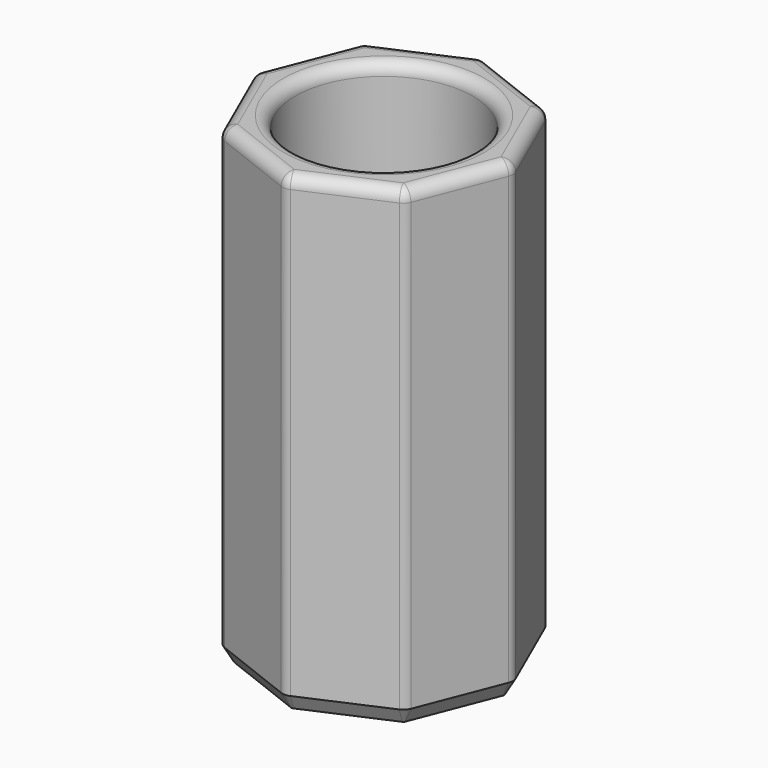
from build123d import *

# Parameters (mm, degrees)
F0_R     = 6.25
F1_DEPTH = 40
F2_R     = 7.5
F3_DEPTH = 20
F4_R     = 1
F5_SIZE2 = 1.2990381057
F5_SIZE  = 0.75
F6_R     = 1


with BuildPart() as f1:
    # F0 (on Top) → F1 (new body)
    with BuildSketch(Plane.XY):
        Polygon((-0.2243624043, 10.8215964181), (-7.8106723881, 7.493376033), (-10.8215964181, -0.2243624043), (-7.493376033, -7.8106723881), (0.2243624043, -10.8215964181), (7.8106723881, -7.493376033), (10.8215964181, 0.2243624043), (7.493376033, 7.8106723881), align=None)
        Circle(F0_R, mode=Mode.SUBTRACT)
    extrude(amount=F1_DEPTH)

    # F2 (on face) → F3 (cut)
    with BuildSketch(Plane.XY.offset(40)):
        Circle(F2_R)
    extrude(amount=-F3_DEPTH, mode=Mode.SUBTRACT)

    # F4
    f4_edges = [f1.edges().sort_by_distance(p)[0] for p in [
        (-10.821596, -0.224362, 20),
        (-7.493376, -7.810672, 20),
        (0.224362, -10.821596, 20),
        (7.810672, -7.493376, 20),
        (10.821596, 0.224362, 20),
        (7.493376, 7.810672, 20),
        (-0.224362, 10.821596, 20),
        (-7.810672, 7.493376, 20),
    ]]
    fillet(f4_edges, radius=F4_R)

    # F5
    f5_edges = [f1.edges().sort_by_distance(p)[0] for p in [
        (-4.017517, 9.157486, 0),
        (-0.222655, 10.739222, 0),
        (-7.751217, 7.436336, 0),
        (3.634507, 9.316134, 0),
        (-9.316134, 3.634507, 0),
        (7.436336, 7.751217, 0),
        (-10.739222, -0.222655, 0),
        (9.157486, 4.017517, 0),
        (-9.157486, -4.017517, 0),
        (10.739222, 0.222655, 0),
        (-7.436336, -7.751217, 0),
        (9.316134, -3.634507, 0),
        (-3.634507, -9.316134, 0),
        (7.751217, -7.436336, 0),
        (0.222655, -10.739222, 0),
        (4.017517, -9.157486, 0),
        (-6.25, 0, 0),
    ]]
    f5_side = f1.faces().sort_by_distance((-3.895482, 8.879321, 0))[0]
    chamfer(f5_edges, length=F5_SIZE, length2=F5_SIZE2, reference=f5_side)

    # F6
    f6_edges = [f1.edges().sort_by_distance(p)[0] for p in [
        (-4.017517, 9.157486, 40),
        (-0.222655, 10.739222, 40),
        (-7.751217, 7.436336, 40),
        (3.634507, 9.316134, 40),
        (-9.316134, 3.634507, 40),
        (7.436336, 7.751217, 40),
        (-10.739222, -0.222655, 40),
        (9.157486, 4.017517, 40),
        (-9.157486, -4.017517, 40),
        (10.739222, 0.222655, 40),
        (-7.436336, -7.751217, 40),
        (9.316134, -3.634507, 40),
        (-3.634507, -9.316134, 40),
        (7.751217, -7.436336, 40),
        (0.222655, -10.739222, 40),
        (4.017517, -9.157486, 40),
        (-7.5, 0, 40),
    ]]
    fillet(f6_edges, radius=F6_R)


solid = f1.part
